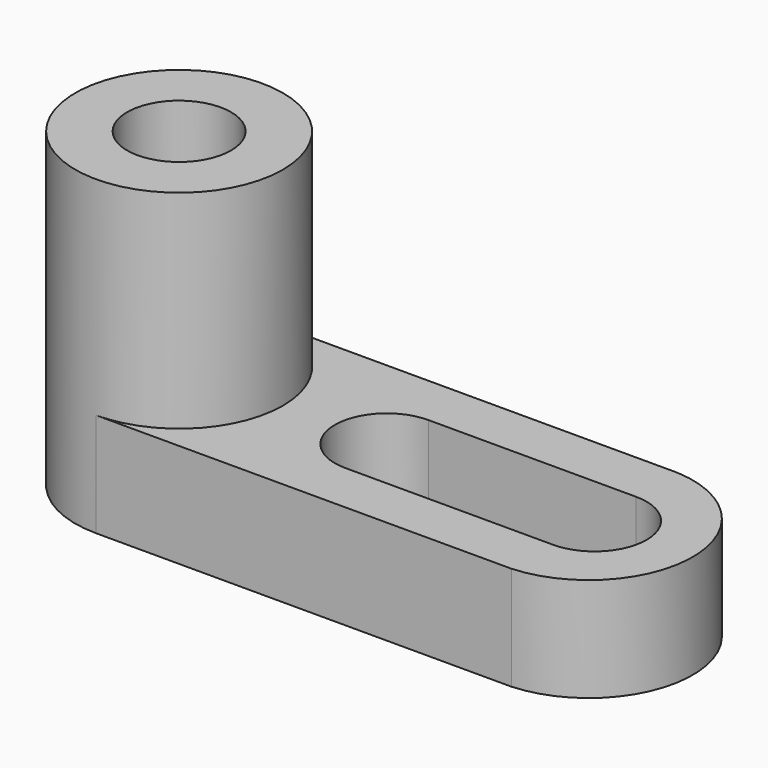
from build123d import *

# Parameters (mm, degrees)
F0_W     = 76.2
F0_H     = 12.7
F1_DEPTH = 25.4
F2_R     = 12.7
F3_DEPTH = 25.4
F4_DEPTH = 12.7
F5_R     = 6.35
F6_DEPTH = 38.1
F8_DEPTH = 12.7


with BuildPart() as f1:
    # F0 (on Front) → F1 (new body)
    with BuildSketch(Plane.XZ):
        with Locations((-9.585544682, 10.4771234242)):
            Rectangle(F0_W, F0_H)
    extrude(amount=F1_DEPTH)

    # F2 (on face) → F3 (join)
    with BuildSketch(Plane.XY.offset(16.8271234242)):
        with Locations((-34.985544682, -12.7)):
            Circle(F2_R)
    extrude(amount=F3_DEPTH)

    # F4 (cut): faces of the model
    f4_faces = [f1.faces().sort_by_distance(p)[0] for p in [
        (-44.8487718574, -2.8367728246, 16.8271234242),
        (-44.8487718574, -22.5632271754, 16.8271234242),
    ]]
    extrude(f4_faces, amount=-F4_DEPTH, mode=Mode.SUBTRACT)

    # F5 (on face) → F6 (cut)
    with BuildSketch(Plane.XY.offset(42.2271234242)):
        with Locations((-34.985544682, -12.7)):
            Circle(F5_R)
    extrude(amount=-F6_DEPTH, mode=Mode.SUBTRACT)

    # F7 (on face) → F8 (cut)
    with BuildSketch(Plane.XY.offset(16.8271234242)):
        with BuildLine():
            ThreePointArc((-9.585544682, -19.05), (-5.0954166214, -17.1901280605), (-3.235544682, -12.7))
            ThreePointArc((-3.235544682, -12.7), (-5.0954166214, -8.2098719395), (-9.585544682, -6.35))
            ThreePointArc((-9.585544682, -6.35), (-15.935544682, -12.7), (-9.585544682, -19.05))
        make_face()
        with BuildLine():
            ThreePointArc((-9.585544682, -6.35), (-5.0954166214, -8.2098719395), (-3.235544682, -12.7))
            ThreePointArc((-3.235544682, -12.7), (-5.0954166214, -17.1901280605), (-9.585544682, -19.05))
            Line((-9.585544682, -19.05), (15.814455318, -19.05))
            ThreePointArc((15.814455318, -19.05), (9.464455318, -12.7), (15.814455318, -6.35))
            Line((15.814455318, -6.35), (-9.585544682, -6.35))
        make_face()
        with BuildLine():
            ThreePointArc((22.164455318, -12.7), (20.3045833786, -8.2098719395), (15.814455318, -6.35))
            ThreePointArc((15.814455318, -6.35), (9.464455318, -12.7), (15.814455318, -19.05))
            ThreePointArc((15.814455318, -19.05), (20.3045833786, -17.1901280605), (22.164455318, -12.7))
        make_face()
        with BuildLine():
            ThreePointArc((15.814455318, 0), (27.816257265, -12.7), (15.814455318, -25.4))
            Line((15.814455318, -25.4), (28.514455318, -25.4))
            Line((28.514455318, -25.4), (28.514455318, 0))
            Line((28.514455318, 0), (15.814455318, 0))
        make_face()
    extrude(amount=-F8_DEPTH, mode=Mode.SUBTRACT)


solid = f1.part
